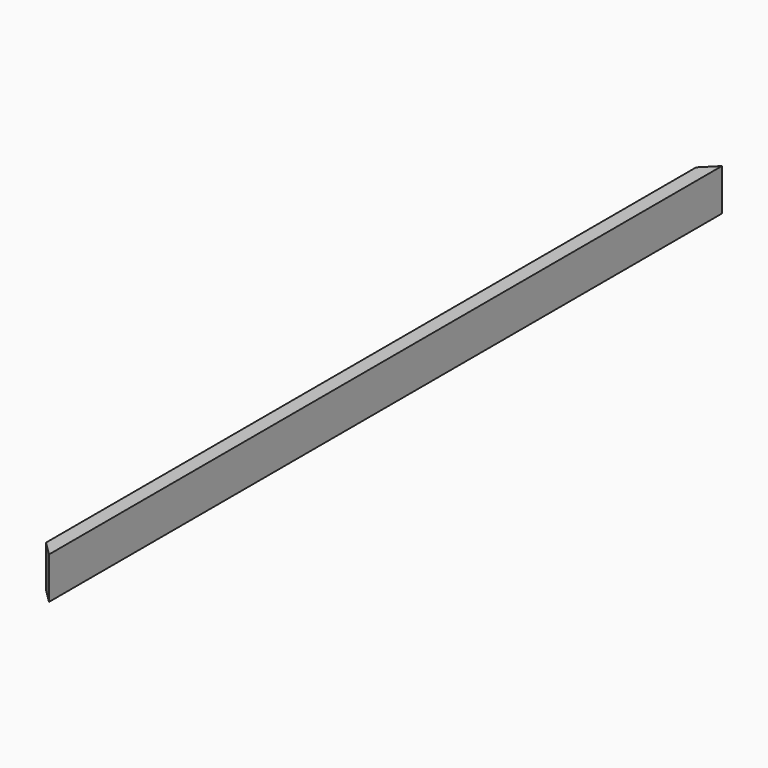
from build123d import *

# Parameters (mm, degrees)
F0_W     = 1117.6
F0_H     = 55.5625
F1_DEPTH = 19.05
F3_DEPTH = 55.5635


with BuildPart() as f1:
    # F0 (on Right) → F1 (new body)
    with BuildSketch(Plane.YZ):
        Rectangle(F0_W, F0_H)
    extrude(amount=F1_DEPTH)

    # F2 (on face) → F3 (cut, through all)
    with BuildSketch(Plane.XY.offset(27.78125)):
        Polygon((0, 539.75), (19.05, 558.8), (0, 558.8), align=None)
        Polygon((0, -558.8), (19.05, -558.8), (0, -539.75), align=None)
    extrude(amount=-F3_DEPTH, mode=Mode.SUBTRACT)


solid = f1.part
